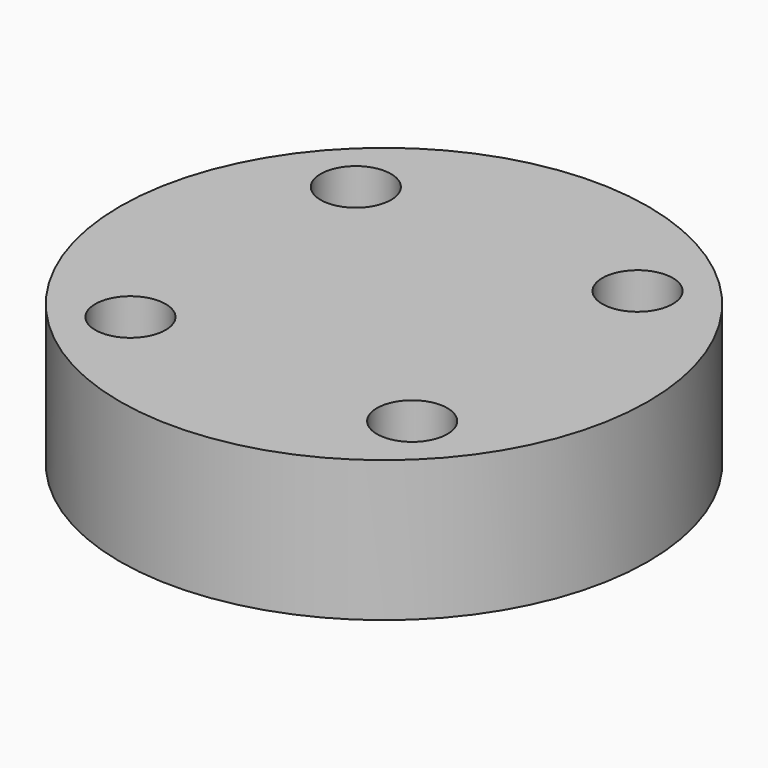
from build123d import *

# Parameters (mm, degrees)
CYLINDER1348_R     = 1
CYLINDER1348_DEPTH = 20
CYLINDER1353_R     = 1
CYLINDER1353_DEPTH = 20
CYLINDER1343_R     = 1
CYLINDER1343_DEPTH = 20
CYLINDER1355_R     = 1
CYLINDER1355_DEPTH = 20
CYLINDER1340_R     = 7.5
CYLINDER1340_DEPTH = 4


with BuildPart() as obj1:
    # Cylinder1348 → Cylinder1348 (new body)
    with BuildSketch(Plane(origin=(4, -4, -88), x_dir=(0, 1, 0), z_dir=(0, 0, 1))):
        Circle(CYLINDER1348_R)
    extrude(amount=CYLINDER1348_DEPTH)


with BuildPart() as obj2:
    # Cylinder1353 → Cylinder1353 (new body)
    with BuildSketch(Plane(origin=(4, 4, -88), x_dir=(-1, 0, 0), z_dir=(0, 0, 1))):
        Circle(CYLINDER1353_R)
    extrude(amount=CYLINDER1353_DEPTH)


with BuildPart() as obj3:
    # Cylinder1343 → Cylinder1343 (new body)
    with BuildSketch(Plane(origin=(-4, 4, -88), x_dir=(0, -1, 0), z_dir=(0, 0, 1))):
        Circle(CYLINDER1343_R)
    extrude(amount=CYLINDER1343_DEPTH)


with BuildPart() as compound947:
    # Cylinder1355 → Cylinder1355 (new body)
    with BuildSketch(Plane(origin=(-4, -4, -88), x_dir=(1, 0, 0), z_dir=(0, 0, 1))):
        Circle(CYLINDER1355_R)
    extrude(amount=CYLINDER1355_DEPTH)

    # Compound947: union obj1, obj2, obj3
    add(obj1.part)
    add(obj2.part)
    add(obj3.part)


with BuildPart() as compound947_1:
    # Compound947 placement: moved
    add(compound947.part.moved(Location((0, 0, 91))))


with BuildPart() as cut485:
    # Cylinder1340 → Cylinder1340 (new body)
    with BuildSketch(Plane.XY.offset(15)):
        Circle(CYLINDER1340_R)
    extrude(amount=CYLINDER1340_DEPTH)

    # Cut485: cut Compound947
    add(compound947_1.part, mode=Mode.SUBTRACT)


solid = cut485.part
